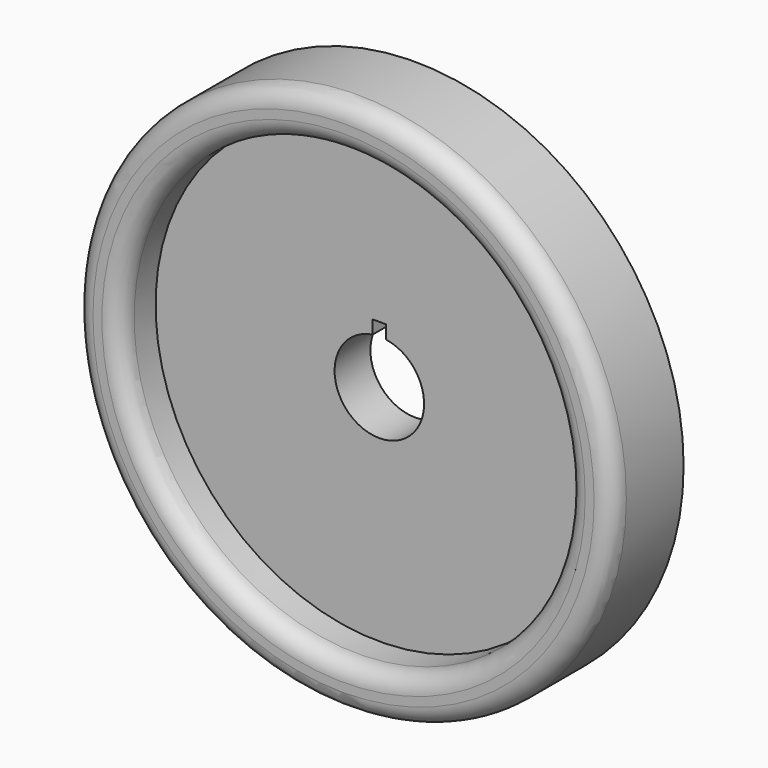
from build123d import *

# Parameters (mm, degrees)
F0_R     = 76.2
F0_R_2   = 63.5
F1_DEPTH = 25.4
F2_DEPTH = 12.7
F3_R     = 5.08


with BuildPart() as f1:
    # F0 (on Front) → F1 (new body)
    with BuildSketch(Plane.XZ):
        Circle(F0_R)
        Circle(F0_R_2, mode=Mode.SUBTRACT)
    extrude(amount=F1_DEPTH)

    # F0 (on Front) → F2 (join)
    with BuildSketch(Plane.XZ):
        Circle(F0_R_2)
        with BuildLine():
            ThreePointArc((1.905, 12.556312), (0, -12.7), (-1.905, 12.556312))
            Line((-1.905, 12.556312), (-1.905, 16.366312))
            Line((-1.905, 16.366312), (1.905, 16.366312))
            Line((1.905, 16.366312), (1.905, 12.556312))
        make_face(mode=Mode.SUBTRACT)
    extrude(amount=F2_DEPTH)

    # F3
    f3_edges = [f1.edges().sort_by_distance(p)[0] for p in [
        (-76.2, -25.4, 0),
        (-63.5, -25.4, 0),
    ]]
    fillet(f3_edges, radius=F3_R)


solid = f1.part
